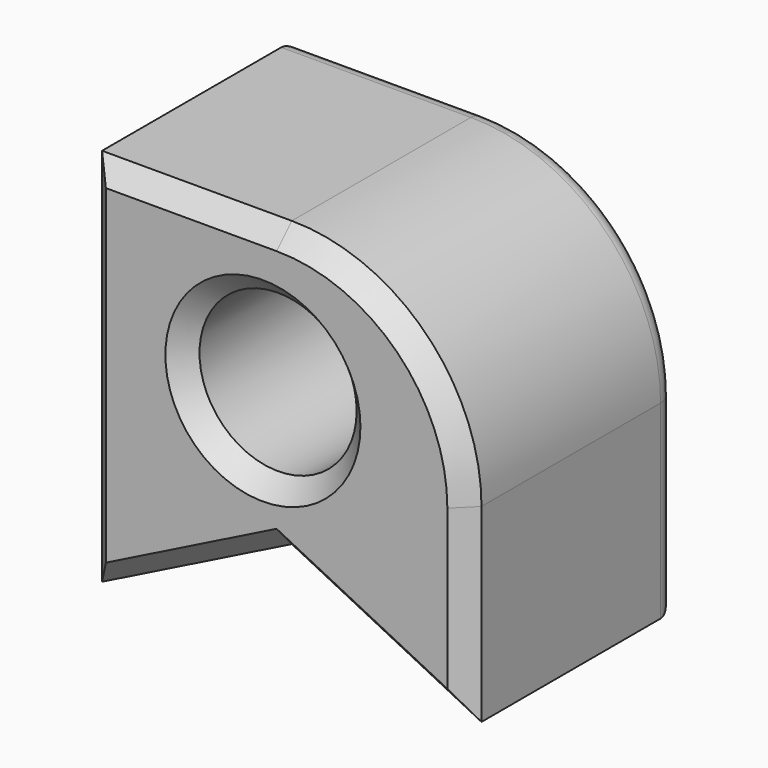
from build123d import *

# Parameters (mm, degrees)
F1_DEPTH = 69
F2_R     = 5
F3_SIZE  = 5
F4_R     = 20.707169
F5_DEPTH = 69
F6_SIZE  = 5


with BuildPart() as f1:
    # F0 (on Front) → F1 (new body)
    with BuildSketch(Plane.XZ):
        with BuildLine():
            Line((-46.385089, -46.113969), (-46.385089, -96.113969))
            Line((-46.385089, -96.113969), (-46.385089, -146.113969))
            Line((-46.385089, -146.113969), (3.614911, -121.113969))
            Line((3.614911, -121.113969), (53.614911, -146.113969))
            Line((53.614911, -146.113969), (53.614911, -96.113969))
            ThreePointArc((53.614911, -96.113969), (38.97025, -60.75863), (3.614911, -46.113969))
            Line((3.614911, -46.113969), (-46.385089, -46.113969))
        make_face()
    extrude(amount=-F1_DEPTH)

    # F2
    f2_edges = [f1.edges().sort_by_distance(p)[0] for p in [
        (-21.385089, 69, -46.113969),
        (-46.385089, 69, -96.113969),
        (-21.385089, 69, -133.613969),
        (28.614911, 69, -133.613969),
        (53.614911, 69, -121.113969),
        (38.97025, 69, -60.75863),
    ]]
    fillet(f2_edges, radius=F2_R)

    # F3
    f3_edges = [f1.edges().sort_by_distance(p)[0] for p in [
        (-21.385089, 0, -46.113969),
        (-46.385089, 0, -96.113969),
        (-21.385089, 0, -133.613969),
        (28.614911, 0, -133.613969),
        (53.614911, 0, -121.113969),
        (38.97025, 0, -60.75863),
    ]]
    chamfer(f3_edges, length=F3_SIZE)

    # F4 (on face) → F5 (cut)
    with BuildSketch(Plane.XZ):
        with Locations((0, -84.683239)):
            Circle(F4_R)
    extrude(amount=-F5_DEPTH, mode=Mode.SUBTRACT)

    # F6
    f6_edges = [f1.edges().sort_by_distance(p)[0] for p in [
        (20.707169, 34.5, -84.683239),
        (-20.707169, 0, -84.683239),
        (-20.707169, 69, -84.683239),
    ]]
    chamfer(f6_edges, length=F6_SIZE)


solid = f1.part
